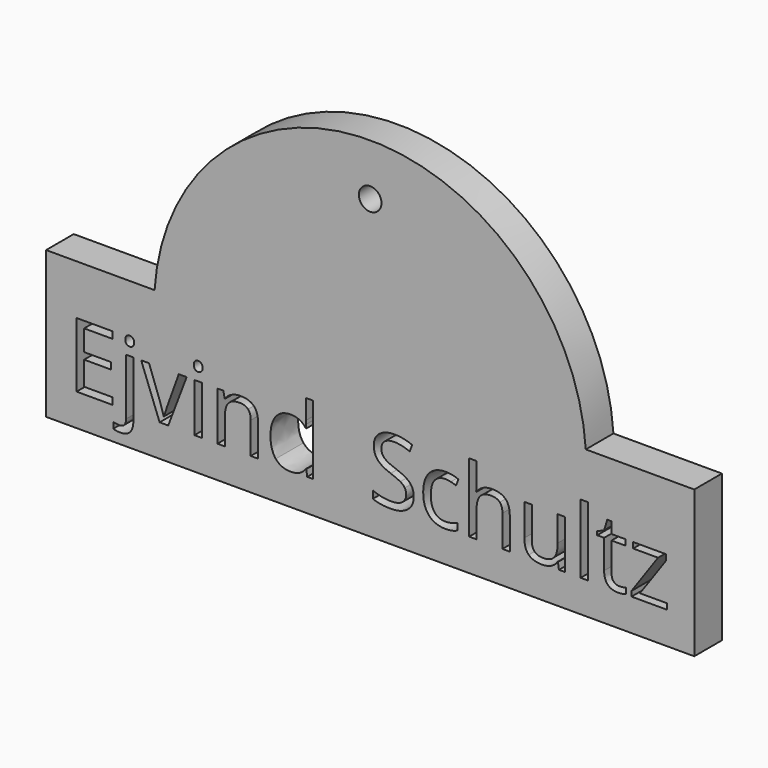
from build123d import *

# Parameters (mm, degrees)
F0_W     = 1.7044734805
F0_H     = 11.2482113115
F0_H_2   = 15.9708179878
F0_R     = 2.614849965
F1_DEPTH = 8


with BuildPart() as f1:
    # F0 (on Front) → F1 (new body)
    with BuildSketch(Plane.XZ):
        Polygon((-49.8949887521, 14.3368682871), (-75, 14.3368682871), (-75, -19.6468185302), (75, -19.6468185302), (75, 14.3368682871), (49.8949887521, 14.3368682871), align=None)
        with BuildLine():
            add(Edge.make_bspline(
                [(-54.8009570949, -13.9370654152), (-54.8009570949, -17.263908644), (-57.8716366793, -17.263908644)],
                knots=[0, 0, 0, 1, 1, 1], degree=2))
            add(Edge.make_bspline(
                [(-57.8716366793, -17.263908644), (-58.8470290178, -17.263908644), (-59.4513124868, -17.0044608502)],
                knots=[0, 0, 0, 1, 1, 1], degree=2))
            Line((-59.4513124868, -17.0044608502), (-59.4513124868, -15.6218339999))
            add(Edge.make_bspline(
                [(-59.4513124868, -15.6218339999), (-58.7419362406, -15.8254512558), (-58.0555490394, -15.8254512558)],
                knots=[0, 0, 0, 1, 1, 1], degree=2))
            add(Edge.make_bspline(
                [(-58.0555490394, -15.8254512558), (-57.2542166131, -15.8254512558), (-56.8798235943, -15.3886594005)],
                knots=[0, 0, 0, 1, 1, 1], degree=2))
            add(Edge.make_bspline(
                [(-56.8798235943, -15.3886594005), (-56.5054305754, -14.9518675452), (-56.5054305754, -14.0618630881)],
                knots=[0, 0, 0, 1, 1, 1], degree=2))
            Line((-56.5054305754, -14.0618630881), (-56.5054305754, -0.9646757274))
            Line((-56.5054305754, -0.9646757274), (-54.8009570949, -0.9646757274))
            Line((-54.8009570949, -0.9646757274), (-54.8009570949, -13.9370654152))
        make_face(mode=Mode.SUBTRACT)
        Polygon((-59.5728260105, -10.6529161271), (-59.5728260105, -12.212887039), (-67.9375542471, -12.212887039), (-67.9375542471, 2.7923910581), (-59.5728260105, 2.7923910581), (-59.5728260105, 1.2422725942), (-66.1936709752, 1.2422725942), (-66.1936709752, -3.5919951578), (-59.9734922236, -3.5919951578), (-59.9734922236, -5.1322611739), (-66.1936709752, -5.1322611739), (-66.1936709752, -10.6529161271), align=None, mode=Mode.SUBTRACT)
        with BuildLine():
            Line((-46.7350864435, -12.212887039), (-48.7252809121, -12.212887039))
            Line((-48.7252809121, -12.212887039), (-52.9946749865, -0.9646757274))
            Line((-52.9946749865, -0.9646757274), (-51.1686879824, -0.9646757274))
            Line((-51.1686879824, -0.9646757274), (-48.7449858078, -7.6347829314))
            add(Edge.make_bspline(
                [(-48.7449858078, -7.6347829314), (-47.9239484858, -9.9763813738), (-47.7794459171, -10.6726210229)],
                knots=[0, 0, 0, 1, 1, 1], degree=2))
            Line((-47.7794459171, -10.6726210229), (-47.6973421849, -10.6726210229))
            add(Edge.make_bspline(
                [(-47.6973421849, -10.6726210229), (-47.5856811091, -10.1307363903), (-46.9846817894, -8.4213366859)],
                knots=[0, 0, 0, 1, 1, 1], degree=2))
            add(Edge.make_bspline(
                [(-46.9846817894, -8.4213366859), (-46.3836824697, -6.7119369815), (-44.2916793732, -0.9646757274)],
                knots=[0, 0, 0, 1, 1, 1], degree=2))
            Line((-44.2916793732, -0.9646757274), (-42.465692369, -0.9646757274))
            Line((-42.465692369, -0.9646757274), (-46.7350864435, -12.212887039))
        make_face(mode=Mode.SUBTRACT)
        with Locations((-39.8071735204, -6.5887813832)):
            Rectangle(F0_W, F0_H, mode=Mode.SUBTRACT)
        with BuildLine():
            Line((-25.9398531516, -12.212887039), (-27.6443266321, -12.212887039))
            Line((-27.6443266321, -12.212887039), (-27.6443266321, -4.9352122166))
            add(Edge.make_bspline(
                [(-27.6443266321, -4.9352122166), (-27.6443266321, -3.5624378142), (-28.2699570715, -2.8842609863)],
                knots=[0, 0, 0, 1, 1, 1], degree=2))
            add(Edge.make_bspline(
                [(-28.2699570715, -2.8842609863), (-28.8955875108, -2.2060841583), (-30.2322362711, -2.2060841583)],
                knots=[0, 0, 0, 1, 1, 1], degree=2))
            add(Edge.make_bspline(
                [(-30.2322362711, -2.2060841583), (-31.9958244388, -2.2060841583), (-32.8168617608, -3.1601295265)],
                knots=[0, 0, 0, 1, 1, 1], degree=2))
            add(Edge.make_bspline(
                [(-32.8168617608, -3.1601295265), (-33.6378990828, -4.1141748946), (-33.6378990828, -6.3112707683)],
                knots=[0, 0, 0, 1, 1, 1], degree=2))
            Line((-33.6378990828, -6.3112707683), (-33.6378990828, -12.212887039))
            Line((-33.6378990828, -12.212887039), (-35.3423725633, -12.212887039))
            Line((-35.3423725633, -12.212887039), (-35.3423725633, -0.9646757274))
            Line((-35.3423725633, -0.9646757274), (-33.9564615637, -0.9646757274))
            Line((-33.9564615637, -0.9646757274), (-33.6805930235, -2.5049417435))
            Line((-33.6805930235, -2.5049417435), (-33.5984892913, -2.5049417435))
            add(Edge.make_bspline(
                [(-33.5984892913, -2.5049417435), (-33.0730254052, -1.6740519736), (-32.1288324849, -1.2159131479)],
                knots=[0, 0, 0, 1, 1, 1], degree=2))
            add(Edge.make_bspline(
                [(-32.1288324849, -1.2159131479), (-31.1846395646, -0.7577743223), (-30.0253348659, -0.7577743223)],
                knots=[0, 0, 0, 1, 1, 1], degree=2))
            add(Edge.make_bspline(
                [(-30.0253348659, -0.7577743223), (-27.9924464566, -0.7577743223), (-26.9661498041, -1.7380928847)],
                knots=[0, 0, 0, 1, 1, 1], degree=2))
            add(Edge.make_bspline(
                [(-26.9661498041, -1.7380928847), (-25.9398531516, -2.7184114472), (-25.9398531516, -4.8760975295)],
                knots=[0, 0, 0, 1, 1, 1], degree=2))
            Line((-25.9398531516, -4.8760975295), (-25.9398531516, -12.212887039))
        make_face(mode=Mode.SUBTRACT)
        with BuildLine():
            Line((-14.5602758685, -12.212887039), (-14.7868821694, -10.7054625157))
            Line((-14.7868821694, -10.7054625157), (-14.8788383495, -10.7054625157))
            add(Edge.make_bspline(
                [(-14.8788383495, -10.7054625157), (-16.0578479439, -12.4197884441), (-18.4092988341, -12.4197884441)],
                knots=[0, 0, 0, 1, 1, 1], degree=2))
            add(Edge.make_bspline(
                [(-18.4092988341, -12.4197884441), (-20.6162471557, -12.4197884441), (-21.8428769148, -10.9107218462)],
                knots=[0, 0, 0, 1, 1, 1], degree=2))
            add(Edge.make_bspline(
                [(-21.8428769148, -10.9107218462), (-23.0695066739, -9.4016552484), (-23.0695066739, -6.6199808014)],
                knots=[0, 0, 0, 1, 1, 1], degree=2))
            add(Edge.make_bspline(
                [(-23.0695066739, -6.6199808014), (-23.0695066739, -3.8383063544), (-21.8379506908, -2.2980403383)],
                knots=[0, 0, 0, 1, 1, 1], degree=2))
            add(Edge.make_bspline(
                [(-21.8379506908, -2.2980403383), (-20.6063947078, -0.7577743223), (-18.4092988341, -0.7577743223)],
                knots=[0, 0, 0, 1, 1, 1], degree=2))
            add(Edge.make_bspline(
                [(-18.4092988341, -0.7577743223), (-16.1202467804, -0.7577743223), (-14.8985432452, -2.4228380113)],
                knots=[0, 0, 0, 1, 1, 1], degree=2))
            Line((-14.8985432452, -2.4228380113), (-14.7638931244, -2.4228380113))
            Line((-14.7638931244, -2.4228380113), (-14.8361444087, -1.6116531371))
            Line((-14.8361444087, -1.6116531371), (-14.8788383495, -0.8201731587))
            Line((-14.8788383495, -0.8201731587), (-14.8788383495, 3.7579309488))
            Line((-14.8788383495, 3.7579309488), (-13.174364869, 3.7579309488))
            Line((-13.174364869, 3.7579309488), (-13.174364869, -12.212887039))
            Line((-13.174364869, -12.212887039), (-14.5602758685, -12.212887039))
        make_face(mode=Mode.SUBTRACT)
        with BuildLine():
            add(Edge.make_bspline(
                [(-56.3625700814, 1.2258518477), (-56.6499331441, 1.5082886865), (-56.6499331441, 2.0830148119)],
                knots=[0, 0, 0, 1, 1, 1], degree=2))
            add(Edge.make_bspline(
                [(-56.6499331441, 2.0830148119), (-56.6499331441, 2.6675933852), (-56.3625700814, 2.9401777761)],
                knots=[0, 0, 0, 1, 1, 1], degree=2))
            add(Edge.make_bspline(
                [(-56.3625700814, 2.9401777761), (-56.0752070187, 3.212762167), (-55.6416993127, 3.212762167)],
                knots=[0, 0, 0, 1, 1, 1], degree=2))
            add(Edge.make_bspline(
                [(-55.6416993127, 3.212762167), (-55.2311806517, 3.212762167), (-54.9339651411, 2.9352515521)],
                knots=[0, 0, 0, 1, 1, 1], degree=2))
            add(Edge.make_bspline(
                [(-54.9339651411, 2.9352515521), (-54.6367496305, 2.6577409373), (-54.6367496305, 2.0830148119)],
                knots=[0, 0, 0, 1, 1, 1], degree=2))
            add(Edge.make_bspline(
                [(-54.6367496305, 2.0830148119), (-54.6367496305, 1.5082886865), (-54.9339651411, 1.2258518477)],
                knots=[0, 0, 0, 1, 1, 1], degree=2))
            add(Edge.make_bspline(
                [(-54.9339651411, 1.2258518477), (-55.2311806517, 0.9434150089), (-55.6416993127, 0.9434150089)],
                knots=[0, 0, 0, 1, 1, 1], degree=2))
            add(Edge.make_bspline(
                [(-55.6416993127, 0.9434150089), (-56.0752070187, 0.9434150089), (-56.3625700814, 1.2258518477)],
                knots=[0, 0, 0, 1, 1, 1], degree=2))
        make_face(mode=Mode.SUBTRACT)
        with BuildLine():
            add(Edge.make_bspline(
                [(-40.5165497666, 1.2258518477), (-40.8039128293, 1.5082886865), (-40.8039128293, 2.0830148119)],
                knots=[0, 0, 0, 1, 1, 1], degree=2))
            add(Edge.make_bspline(
                [(-40.8039128293, 2.0830148119), (-40.8039128293, 2.6675933852), (-40.5165497666, 2.9401777761)],
                knots=[0, 0, 0, 1, 1, 1], degree=2))
            add(Edge.make_bspline(
                [(-40.5165497666, 2.9401777761), (-40.2291867039, 3.212762167), (-39.7956789979, 3.212762167)],
                knots=[0, 0, 0, 1, 1, 1], degree=2))
            add(Edge.make_bspline(
                [(-39.7956789979, 3.212762167), (-39.3851603369, 3.212762167), (-39.0879448263, 2.9352515521)],
                knots=[0, 0, 0, 1, 1, 1], degree=2))
            add(Edge.make_bspline(
                [(-39.0879448263, 2.9352515521), (-38.7907293157, 2.6577409373), (-38.7907293157, 2.0830148119)],
                knots=[0, 0, 0, 1, 1, 1], degree=2))
            add(Edge.make_bspline(
                [(-38.7907293157, 2.0830148119), (-38.7907293157, 1.5082886865), (-39.0879448263, 1.2258518477)],
                knots=[0, 0, 0, 1, 1, 1], degree=2))
            add(Edge.make_bspline(
                [(-39.0879448263, 1.2258518477), (-39.3851603369, 0.9434150089), (-39.7956789979, 0.9434150089)],
                knots=[0, 0, 0, 1, 1, 1], degree=2))
            add(Edge.make_bspline(
                [(-39.7956789979, 0.9434150089), (-40.2291867039, 0.9434150089), (-40.5165497666, 1.2258518477)],
                knots=[0, 0, 0, 1, 1, 1], degree=2))
        make_face(mode=Mode.SUBTRACT)
        with BuildLine():
            add(Edge.make_bspline(
                [(9.1972600812, -5.7168397472), (10.0839803889, -6.6823796379), (10.0839803889, -8.2193615047)],
                knots=[0, 0, 0, 1, 1, 1], degree=2))
            add(Edge.make_bspline(
                [(10.0839803889, -8.2193615047), (10.0839803889, -10.1997035254), (8.6471650754, -11.3097459847)],
                knots=[0, 0, 0, 1, 1, 1], degree=2))
            add(Edge.make_bspline(
                [(8.6471650754, -11.3097459847), (7.2103497619, -12.4197884441), (4.7472377959, -12.4197884441)],
                knots=[0, 0, 0, 1, 1, 1], degree=2))
            add(Edge.make_bspline(
                [(4.7472377959, -12.4197884441), (2.080508574, -12.4197884441), (0.6420511858, -11.7301170936)],
                knots=[0, 0, 0, 1, 1, 1], degree=2))
            Line((0.6420511858, -11.7301170936), (0.6420511858, -10.0486326581))
            add(Edge.make_bspline(
                [(0.6420511858, -10.0486326581), (1.568181285, -10.4361622741), (2.6552346994, -10.662768575)],
                knots=[0, 0, 0, 1, 1, 1], degree=2))
            add(Edge.make_bspline(
                [(2.6552346994, -10.662768575), (3.7422881137, -10.8893748759), (4.8096366323, -10.8893748759)],
                knots=[0, 0, 0, 1, 1, 1], degree=2))
            add(Edge.make_bspline(
                [(4.8096366323, -10.8893748759), (6.5535199043, -10.8893748759), (7.4369560628, -10.2276187943)],
                knots=[0, 0, 0, 1, 1, 1], degree=2))
            add(Edge.make_bspline(
                [(7.4369560628, -10.2276187943), (8.3203922213, -9.5658627128), (8.3203922213, -8.3835689691)],
                knots=[0, 0, 0, 1, 1, 1], degree=2))
            add(Edge.make_bspline(
                [(8.3203922213, -8.3835689691), (8.3203922213, -7.6052255878), (8.0067559642, -7.1076769707)],
                knots=[0, 0, 0, 1, 1, 1], degree=2))
            add(Edge.make_bspline(
                [(8.0067559642, -7.1076769707), (7.6931197072, -6.6101283536), (6.9591123414, -6.18811517)],
                knots=[0, 0, 0, 1, 1, 1], degree=2))
            add(Edge.make_bspline(
                [(6.9591123414, -6.18811517), (6.2251049755, -5.7661019865), (4.7275329001, -5.2340698019)],
                knots=[0, 0, 0, 1, 1, 1], degree=2))
            add(Edge.make_bspline(
                [(4.7275329001, -5.2340698019), (2.6355298037, -4.4852837642), (1.7373149734, -3.4589871117)],
                knots=[0, 0, 0, 1, 1, 1], degree=2))
            add(Edge.make_bspline(
                [(1.7373149734, -3.4589871117), (0.8391001431, -2.4326904592), (0.8391001431, -0.7807633673)],
                knots=[0, 0, 0, 1, 1, 1], degree=2))
            add(Edge.make_bspline(
                [(0.8391001431, -0.7807633673), (0.8391001431, 0.9532674568), (2.1412653358, 1.9795641093)],
                knots=[0, 0, 0, 1, 1, 1], degree=2))
            add(Edge.make_bspline(
                [(2.1412653358, 1.9795641093), (3.4434305285, 3.0058607618), (5.5912641629, 3.0058607618)],
                knots=[0, 0, 0, 1, 1, 1], degree=2))
            add(Edge.make_bspline(
                [(5.5912641629, 3.0058607618), (7.8277698281, 3.0058607618), (9.7063032208, 2.1848234398)],
                knots=[0, 0, 0, 1, 1, 1], degree=2))
            Line((9.7063032208, 2.1848234398), (9.161134439, 0.6675464688))
            add(Edge.make_bspline(
                [(9.161134439, 0.6675464688), (7.302305942, 1.44588985), (5.5485702221, 1.44588985)],
                knots=[0, 0, 0, 1, 1, 1], degree=2))
            add(Edge.make_bspline(
                [(5.5485702221, 1.44588985), (4.1626592226, 1.44588985), (3.3826737667, 0.8514588289)],
                knots=[0, 0, 0, 1, 1, 1], degree=2))
            add(Edge.make_bspline(
                [(3.3826737667, 0.8514588289), (2.6026883108, 0.2570278077), (2.6026883108, -0.800468263)],
                knots=[0, 0, 0, 1, 1, 1], degree=2))
            add(Edge.make_bspline(
                [(2.6026883108, -0.800468263), (2.6026883108, -1.5788116443), (2.8900513735, -2.0780023361)],
                knots=[0, 0, 0, 1, 1, 1], degree=2))
            add(Edge.make_bspline(
                [(2.8900513735, -2.0780023361), (3.1774144362, -2.5771930278), (3.8605174881, -2.9926379128)],
                knots=[0, 0, 0, 1, 1, 1], degree=2))
            add(Edge.make_bspline(
                [(3.8605174881, -2.9926379128), (4.54362054, -3.4080827977), (5.9492364353, -3.9105576388)],
                knots=[0, 0, 0, 1, 1, 1], degree=2))
            add(Edge.make_bspline(
                [(5.9492364353, -3.9105576388), (8.3105397734, -4.7512998565), (9.1972600812, -5.7168397472)],
                knots=[0, 0, 0, 1, 1, 1], degree=2))
        make_face(mode=Mode.SUBTRACT)
        with BuildLine():
            add(Edge.make_bspline(
                [(20.2352858383, -11.8319257215), (19.1088226325, -12.4197884441), (17.3944967041, -12.4197884441)],
                knots=[0, 0, 0, 1, 1, 1], degree=2))
            add(Edge.make_bspline(
                [(17.3944967041, -12.4197884441), (14.9510896338, -12.4197884441), (13.6111567243, -10.9156480702)],
                knots=[0, 0, 0, 1, 1, 1], degree=2))
            add(Edge.make_bspline(
                [(13.6111567243, -10.9156480702), (12.2712238148, -9.4115076963), (12.2712238148, -6.6593905929)],
                knots=[0, 0, 0, 1, 1, 1], degree=2))
            add(Edge.make_bspline(
                [(12.2712238148, -6.6593905929), (12.2712238148, -3.8383063544), (13.6325036947, -2.2980403383)],
                knots=[0, 0, 0, 1, 1, 1], degree=2))
            add(Edge.make_bspline(
                [(13.6325036947, -2.2980403383), (14.9937835746, -0.7577743223), (17.5061577799, -0.7577743223)],
                knots=[0, 0, 0, 1, 1, 1], degree=2))
            add(Edge.make_bspline(
                [(17.5061577799, -0.7577743223), (18.3173426541, -0.7577743223), (19.1285275282, -0.9334763092)],
                knots=[0, 0, 0, 1, 1, 1], degree=2))
            add(Edge.make_bspline(
                [(19.1285275282, -0.9334763092), (19.9397124024, -1.1091782961), (20.3994933027, -1.3456370448)],
                knots=[0, 0, 0, 1, 1, 1], degree=2))
            Line((20.3994933027, -1.3456370448), (19.8773135659, -2.7906627316))
            add(Edge.make_bspline(
                [(19.8773135659, -2.7906627316), (19.3124398883, -2.5640564307), (18.6457575829, -2.4162697127)],
                knots=[0, 0, 0, 1, 1, 1], degree=2))
            add(Edge.make_bspline(
                [(18.6457575829, -2.4162697127), (17.9790752774, -2.2684829948), (17.4667479885, -2.2684829948)],
                knots=[0, 0, 0, 1, 1, 1], degree=2))
            add(Edge.make_bspline(
                [(17.4667479885, -2.2684829948), (14.0380961317, -2.2684829948), (14.0380961317, -6.6396856971)],
                knots=[0, 0, 0, 1, 1, 1], degree=2))
            add(Edge.make_bspline(
                [(14.0380961317, -6.6396856971), (14.0380961317, -8.7119838979), (14.8739121255, -9.8203842826)],
                knots=[0, 0, 0, 1, 1, 1], degree=2))
            add(Edge.make_bspline(
                [(14.8739121255, -9.8203842826), (15.7097281194, -10.9287846673), (17.3518027634, -10.9287846673)],
                knots=[0, 0, 0, 1, 1, 1], degree=2))
            add(Edge.make_bspline(
                [(17.3518027634, -10.9287846673), (18.7574186587, -10.9287846673), (20.2352858383, -10.3245011983)],
                knots=[0, 0, 0, 1, 1, 1], degree=2))
            Line((20.2352858383, -10.3245011983), (20.2352858383, -11.8319257215))
        make_face(mode=Mode.SUBTRACT)
        with BuildLine():
            Line((32.3078186211, -12.212887039), (30.6033451406, -12.212887039))
            Line((30.6033451406, -12.212887039), (30.6033451406, -4.9352122166))
            add(Edge.make_bspline(
                [(30.6033451406, -4.9352122166), (30.6033451406, -3.5624378142), (29.9777147013, -2.8842609863)],
                knots=[0, 0, 0, 1, 1, 1], degree=2))
            add(Edge.make_bspline(
                [(29.9777147013, -2.8842609863), (29.3520842619, -2.2060841583), (28.0154355017, -2.2060841583)],
                knots=[0, 0, 0, 1, 1, 1], degree=2))
            add(Edge.make_bspline(
                [(28.0154355017, -2.2060841583), (26.2419948861, -2.2060841583), (25.425883788, -3.171624049)],
                knots=[0, 0, 0, 1, 1, 1], degree=2))
            add(Edge.make_bspline(
                [(25.425883788, -3.171624049), (24.60977269, -4.1371639397), (24.60977269, -6.3309756641)],
                knots=[0, 0, 0, 1, 1, 1], degree=2))
            Line((24.60977269, -6.3309756641), (24.60977269, -12.212887039))
            Line((24.60977269, -12.212887039), (22.9052992095, -12.212887039))
            Line((22.9052992095, -12.212887039), (22.9052992095, 3.7579309488))
            Line((22.9052992095, 3.7579309488), (24.60977269, 3.7579309488))
            Line((24.60977269, 3.7579309488), (24.60977269, -1.0763368032))
            add(Edge.make_bspline(
                [(24.60977269, -1.0763368032), (24.60977269, -1.9499205138), (24.5276689578, -2.5246466392)],
                knots=[0, 0, 0, 1, 1, 1], degree=2))
            Line((24.5276689578, -2.5246466392), (24.6294775857, -2.5246466392))
            add(Edge.make_bspline(
                [(24.6294775857, -2.5246466392), (25.1319524268, -1.7134617651), (26.0613666753, -1.2471125662)],
                knots=[0, 0, 0, 1, 1, 1], degree=2))
            add(Edge.make_bspline(
                [(26.0613666753, -1.2471125662), (26.9907809238, -0.7807633673), (28.1796429661, -0.7807633673)],
                knots=[0, 0, 0, 1, 1, 1], degree=2))
            add(Edge.make_bspline(
                [(28.1796429661, -0.7807633673), (30.2420887189, -0.7807633673), (31.27495367, -1.7610819298)],
                knots=[0, 0, 0, 1, 1, 1], degree=2))
            add(Edge.make_bspline(
                [(31.27495367, -1.7610819298), (32.3078186211, -2.7414004922), (32.3078186211, -4.8760975295)],
                knots=[0, 0, 0, 1, 1, 1], degree=2))
            Line((32.3078186211, -4.8760975295), (32.3078186211, -12.212887039))
        make_face(mode=Mode.SUBTRACT)
        with BuildLine():
            Line((35.6839240892, -0.9646757274), (37.4081024655, -0.9646757274))
            Line((37.4081024655, -0.9646757274), (37.4081024655, -8.2620554454))
            add(Edge.make_bspline(
                [(37.4081024655, -8.2620554454), (37.4081024655, -9.6381139971), (38.0337329048, -10.3146487505)],
                knots=[0, 0, 0, 1, 1, 1], degree=2))
            add(Edge.make_bspline(
                [(38.0337329048, -10.3146487505), (38.6593633442, -10.9911835038), (39.9927279551, -10.9911835038)],
                knots=[0, 0, 0, 1, 1, 1], degree=2))
            add(Edge.make_bspline(
                [(39.9927279551, -10.9911835038), (41.7596002721, -10.9911835038), (42.5740692955, -10.0272856878)],
                knots=[0, 0, 0, 1, 1, 1], degree=2))
            add(Edge.make_bspline(
                [(42.5740692955, -10.0272856878), (43.388538319, -9.0633878717), (43.388538319, -6.8761444459)],
                knots=[0, 0, 0, 1, 1, 1], degree=2))
            Line((43.388538319, -6.8761444459), (43.388538319, -0.9646757274))
            Line((43.388538319, -0.9646757274), (45.0930117995, -0.9646757274))
            Line((45.0930117995, -0.9646757274), (45.0930117995, -12.212887039))
            Line((45.0930117995, -12.212887039), (43.6873959042, -12.212887039))
            Line((43.6873959042, -12.212887039), (43.4410847076, -10.7054625157))
            Line((43.4410847076, -10.7054625157), (43.3491285275, -10.7054625157))
            add(Edge.make_bspline(
                [(43.3491285275, -10.7054625157), (42.8269487907, -11.5363522856), (41.8975345422, -11.9780703649)],
                knots=[0, 0, 0, 1, 1, 1], degree=2))
            add(Edge.make_bspline(
                [(41.8975345422, -11.9780703649), (40.9681202937, -12.4197884441), (39.7759741021, -12.4197884441)],
                knots=[0, 0, 0, 1, 1, 1], degree=2))
            add(Edge.make_bspline(
                [(39.7759741021, -12.4197884441), (37.7233807971, -12.4197884441), (36.7036524432, -11.4443961055)],
                knots=[0, 0, 0, 1, 1, 1], degree=2))
            add(Edge.make_bspline(
                [(36.7036524432, -11.4443961055), (35.6839240892, -10.469003767), (35.6839240892, -8.3244542819)],
                knots=[0, 0, 0, 1, 1, 1], degree=2))
            Line((35.6839240892, -8.3244542819), (35.6839240892, -0.9646757274))
        make_face(mode=Mode.SUBTRACT)
        with BuildLine():
            add(Edge.make_bspline(
                [(56.3313706632, -10.4673616924), (56.8141406085, -11.0108883995), (57.6548828262, -11.0108883995)],
                knots=[0, 0, 0, 1, 1, 1], degree=2))
            add(Edge.make_bspline(
                [(57.6548828262, -11.0108883995), (58.108095428, -11.0108883995), (58.5284665369, -10.9452054138)],
                knots=[0, 0, 0, 1, 1, 1], degree=2))
            add(Edge.make_bspline(
                [(58.5284665369, -10.9452054138), (58.9488376457, -10.879522428), (59.1951488423, -10.8072711437)],
                knots=[0, 0, 0, 1, 1, 1], degree=2))
            Line((59.1951488423, -10.8072711437), (59.1951488423, -12.111078411))
            add(Edge.make_bspline(
                [(59.1951488423, -12.111078411), (58.9192803021, -12.2424443825), (58.3806798189, -12.3311164133)],
                knots=[0, 0, 0, 1, 1, 1], degree=2))
            add(Edge.make_bspline(
                [(58.3806798189, -12.3311164133), (57.8420793357, -12.4197884441), (57.4085716296, -12.4197884441)],
                knots=[0, 0, 0, 1, 1, 1], degree=2))
            add(Edge.make_bspline(
                [(57.4085716296, -12.4197884441), (54.1474113866, -12.4197884441), (54.1474113866, -8.9812841395)],
                knots=[0, 0, 0, 1, 1, 1], degree=2))
            Line((54.1474113866, -8.9812841395), (54.1474113866, -2.2881878905))
            Line((54.1474113866, -2.2881878905), (52.5348940862, -2.2881878905))
            Line((52.5348940862, -2.2881878905), (52.5348940862, -1.4671505685))
            Line((52.5348940862, -1.4671505685), (54.1474113866, -0.7577743223))
            Line((54.1474113866, -0.7577743223), (54.8633559314, 1.6429388073))
            Line((54.8633559314, 1.6429388073), (55.8486007178, 1.6429388073))
            Line((55.8486007178, 1.6429388073), (55.8486007178, -0.9646757274))
            Line((55.8486007178, -0.9646757274), (59.1130451101, -0.9646757274))
            Line((59.1130451101, -0.9646757274), (59.1130451101, -2.2881878905))
            Line((59.1130451101, -2.2881878905), (55.8486007178, -2.2881878905))
            Line((55.8486007178, -2.2881878905), (55.8486007178, -8.9090328552))
            add(Edge.make_bspline(
                [(55.8486007178, -8.9090328552), (55.8486007178, -9.9238349852), (56.3313706632, -10.4673616924)],
                knots=[0, 0, 0, 1, 1, 1], degree=2))
        make_face(mode=Mode.SUBTRACT)
        with Locations((49.5578127566, -4.2274780451)):
            Rectangle(F0_W, F0_H_2, mode=Mode.SUBTRACT)
        Polygon((68.6370780455, -10.8893748759), (68.6370780455, -12.212887039), (60.4759670647, -12.212887039), (60.4759670647, -11.0535823403), (66.614042084, -2.2881878905), (60.8569283821, -2.2881878905), (60.8569283821, -0.9646757274), (68.4827230289, -0.9646757274), (68.4827230289, -2.2881878905), (62.4267517418, -10.8893748759), align=None, mode=Mode.SUBTRACT)
        with BuildLine():
            ThreePointArc((49.8949887521, 14.3368682871), (0, 61.098026298), (-49.8949887521, 14.3368682871))
            Line((-49.8949887521, 14.3368682871), (49.8949887521, 14.3368682871))
        make_face()
        with Locations((0, 49.1369387222)):
            Circle(F0_R, mode=Mode.SUBTRACT)
    extrude(amount=F1_DEPTH)


solid = f1.part
